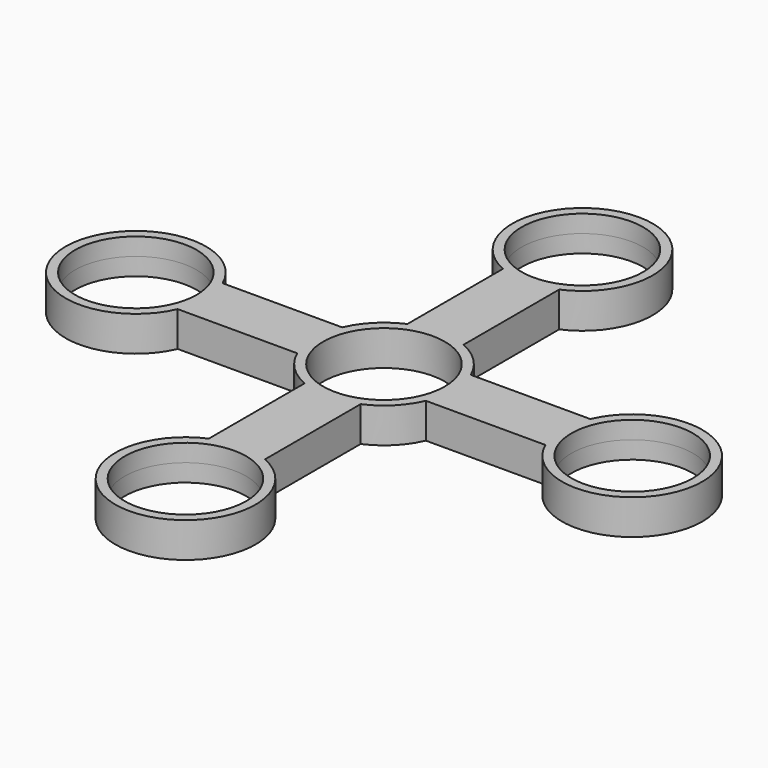
from build123d import *

# Parameters (mm, degrees)
F2_DEPTH = 3.175
F1_R     = 10.9982
F3_DEPTH = 3.175


with BuildPart() as f2:
    # F0 (on Top) → F2 (new body, symmetric)
    with BuildSketch(Plane.XY):
        with BuildLine():
            Line((-5.08, 11.6397422652), (-5.08, 9.7567207606))
            Line((-5.08, 9.7567207606), (5.08, 9.7567207606))
            Line((5.08, 9.7567207606), (5.08, 11.6397422652))
            ThreePointArc((5.08, 11.6397422652), (0, 12.7), (-5.08, 11.6397422652))
        make_face()
        with BuildLine():
            Line((5.08, 9.7567207606), (-5.08, 9.7567207606))
            Line((-5.08, 9.7567207606), (-5.08, 11.6397422652))
            ThreePointArc((-5.08, 11.6397422652), (-8.9802561211, 8.9802561211), (-11.6397422652, 5.08))
            Line((-11.6397422652, 5.08), (-9.7536, 5.08))
            Line((-9.7536, 5.08), (-9.7536, -5.08))
            Line((-9.7536, -5.08), (-11.6397422652, -5.08))
            ThreePointArc((-11.6397422652, -5.08), (-8.9802561211, -8.9802561211), (-5.08, -11.6397422652))
            Line((-5.08, -11.6397422652), (-5.08, -9.7536))
            Line((-5.08, -9.7536), (5.08, -9.7536))
            Line((5.08, -9.7536), (5.08, -11.6397422652))
            ThreePointArc((5.08, -11.6397422652), (8.9802561211, -8.9802561211), (11.6397422652, -5.08))
            Line((11.6397422652, -5.08), (9.7536, -5.08))
            Line((9.7536, -5.08), (9.7536, 5.08))
            Line((9.7536, 5.08), (11.6397422652, 5.08))
            ThreePointArc((11.6397422652, 5.08), (8.9802561211, 8.9802561211), (5.08, 11.6397422652))
            Line((5.08, 11.6397422652), (5.08, 9.7567207606))
        make_face()
        with BuildLine():
            Line((-5.08, 33.2674577348), (-5.08, 11.6397422652))
            ThreePointArc((-5.08, 11.6397422652), (0, 12.7), (5.08, 11.6397422652))
            Line((5.08, 11.6397422652), (5.08, 33.2674577348))
            ThreePointArc((5.08, 33.2674577348), (0, 32.2072), (-5.08, 33.2674577348))
        make_face()
        with BuildLine():
            ThreePointArc((12.7, 44.9072), (-6.9560764803, 55.532782337), (-5.08, 33.2674577348))
            Line((-5.08, 33.2674577348), (-5.08, 35.1567207606))
            Line((-5.08, 35.1567207606), (5.08, 35.1567207606))
            Line((5.08, 35.1567207606), (5.08, 33.2674577348))
            ThreePointArc((5.08, 33.2674577348), (10.625582337, 37.9511235197), (12.7, 44.9072))
        make_face()
        with BuildLine():
            Line((-5.08, 35.1567207606), (-5.08, 33.2674577348))
            ThreePointArc((-5.08, 33.2674577348), (0, 32.2072), (5.08, 33.2674577348))
            Line((5.08, 33.2674577348), (5.08, 35.1567207606))
            Line((5.08, 35.1567207606), (-5.08, 35.1567207606))
        make_face()
        with BuildLine():
            ThreePointArc((-11.6397422652, -5.08), (-12.7, 0), (-11.6397422652, 5.08))
            Line((-11.6397422652, 5.08), (-33.2674577348, 5.08))
            ThreePointArc((-33.2674577348, 5.08), (-32.4750898258, 2.5947324749), (-32.2072, 0))
            ThreePointArc((-32.2072, 0), (-32.4750898258, -2.5947324749), (-33.2674577348, -5.08))
            Line((-33.2674577348, -5.08), (-11.6397422652, -5.08))
        make_face()
        with BuildLine():
            Line((-9.7536, 5.08), (-11.6397422652, 5.08))
            ThreePointArc((-11.6397422652, 5.08), (-12.7, 0), (-11.6397422652, -5.08))
            Line((-11.6397422652, -5.08), (-9.7536, -5.08))
            Line((-9.7536, -5.08), (-9.7536, 5.08))
        make_face()
        with BuildLine():
            ThreePointArc((12.7, 0), (12.4321101742, 2.5947324749), (11.6397422652, 5.08))
            Line((11.6397422652, 5.08), (9.7536, 5.08))
            Line((9.7536, 5.08), (9.7536, -5.08))
            Line((9.7536, -5.08), (11.6397422652, -5.08))
            ThreePointArc((11.6397422652, -5.08), (12.4321101742, -2.5947324749), (12.7, 0))
        make_face()
        with BuildLine():
            Line((33.2674577348, 5.08), (11.6397422652, 5.08))
            ThreePointArc((11.6397422652, 5.08), (12.4321101742, 2.5947324749), (12.7, 0))
            ThreePointArc((12.7, 0), (12.4321101742, -2.5947324749), (11.6397422652, -5.08))
            Line((11.6397422652, -5.08), (33.2674577348, -5.08))
            ThreePointArc((33.2674577348, -5.08), (32.2072, 0), (33.2674577348, 5.08))
        make_face()
        with BuildLine():
            ThreePointArc((-32.2072, 0), (-32.4750898258, 2.5947324749), (-33.2674577348, 5.08))
            Line((-33.2674577348, 5.08), (-35.1536, 5.08))
            Line((-35.1536, 5.08), (-35.1536, -5.08))
            Line((-35.1536, -5.08), (-33.2674577348, -5.08))
            ThreePointArc((-33.2674577348, -5.08), (-32.4750898258, -2.5947324749), (-32.2072, 0))
        make_face()
        with BuildLine():
            Line((-35.1536, 5.08), (-33.2674577348, 5.08))
            ThreePointArc((-33.2674577348, 5.08), (-57.6072, 0), (-33.2674577348, -5.08))
            Line((-33.2674577348, -5.08), (-35.1536, -5.08))
            Line((-35.1536, -5.08), (-35.1536, 5.08))
        make_face()
        with BuildLine():
            ThreePointArc((57.6072, 0), (47.5019324749, 12.4321101742), (33.2674577348, 5.08))
            Line((33.2674577348, 5.08), (35.1536, 5.08))
            Line((35.1536, 5.08), (35.1536, -5.08))
            Line((35.1536, -5.08), (33.2674577348, -5.08))
            ThreePointArc((33.2674577348, -5.08), (47.5019324749, -12.4321101742), (57.6072, 0))
        make_face()
        with BuildLine():
            Line((35.1536, 5.08), (33.2674577348, 5.08))
            ThreePointArc((33.2674577348, 5.08), (32.2072, 0), (33.2674577348, -5.08))
            Line((33.2674577348, -5.08), (35.1536, -5.08))
            Line((35.1536, -5.08), (35.1536, 5.08))
        make_face()
        with BuildLine():
            ThreePointArc((5.08, -11.6397422652), (0, -12.7), (-5.08, -11.6397422652))
            Line((-5.08, -11.6397422652), (-5.08, -33.2674577348))
            ThreePointArc((-5.08, -33.2674577348), (0, -32.2072), (5.08, -33.2674577348))
            Line((5.08, -33.2674577348), (5.08, -11.6397422652))
        make_face()
        with BuildLine():
            Line((-5.08, -9.7536), (-5.08, -11.6397422652))
            ThreePointArc((-5.08, -11.6397422652), (0, -12.7), (5.08, -11.6397422652))
            Line((5.08, -11.6397422652), (5.08, -9.7536))
            Line((5.08, -9.7536), (-5.08, -9.7536))
        make_face()
        with BuildLine():
            ThreePointArc((5.08, -33.2674577348), (0, -32.2072), (-5.08, -33.2674577348))
            Line((-5.08, -33.2674577348), (-5.08, -35.1536))
            Line((-5.08, -35.1536), (5.08, -35.1536))
            Line((5.08, -35.1536), (5.08, -33.2674577348))
        make_face()
        with BuildLine():
            Line((-5.08, -35.1536), (-5.08, -33.2674577348))
            ThreePointArc((-5.08, -33.2674577348), (-6.9560764803, -55.532782337), (12.7, -44.9072))
            ThreePointArc((12.7, -44.9072), (10.625582337, -37.9511235197), (5.08, -33.2674577348))
            Line((5.08, -33.2674577348), (5.08, -35.1536))
            Line((5.08, -35.1536), (-5.08, -35.1536))
        make_face()
    extrude(amount=F2_DEPTH, both=True)

    # F1 (on Top) → F3 (cut, symmetric)
    with BuildSketch(Plane.XY):
        with Locations((0, 44.881273061)):
            Circle(F1_R)
        with Locations((44.9082072701, 0)):
            Circle(F1_R)
        with Locations((-44.9071153058, 0)):
            Circle(F1_R)
        with Locations((0, -44.9086768341)):
            Circle(F1_R)
        Circle(F1_R)
    extrude(amount=F3_DEPTH, both=True, mode=Mode.SUBTRACT)


solid = f2.part
